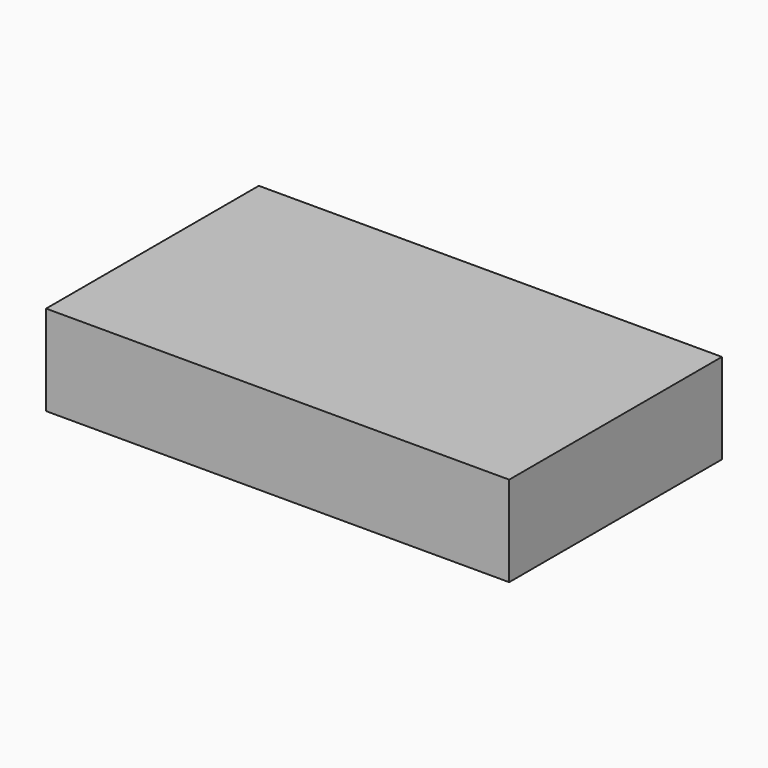
from build123d import *

# Parameters (mm, degrees)
F0_W     = 130.800008
F0_H     = 25.500002
F1_DEPTH = 75.1
F2_W     = 7.499997
F2_H     = 18
F2_W_2   = 7.200001
F2_H_2   = 17.7
F2_W_3   = 8.4
F2_W_4   = 9.900001
F2_H_3   = 17.400001
F2_W_5   = 8.399998
F2_W_6   = 8.399999
F2_H_4   = 16.500001
F2_W_7   = 9.300005
F2_W_8   = 11.099998
F2_H_5   = 15.600001
F3_DEPTH = 60


with BuildPart() as f1:
    # F0 (on Front) → F1 (new body)
    with BuildSketch(Plane.XZ):
        Rectangle(F0_W, F0_H)
    extrude(amount=F1_DEPTH)

    # F2 (on Front) → F3 (cut)
    with BuildSketch(Plane.XZ):
        with Locations((-46.650002, -0.15)):
            Rectangle(F2_W, F2_H)
        with Locations((-32.400001, -0.3)):
            Rectangle(F2_W_2, F2_H_2)
        with Locations((-19.500001, -0.3)):
            Rectangle(F2_W_3, F2_H_2)
        with Locations((-4.95, -0.45)):
            Rectangle(F2_W_4, F2_H_3)
        with Locations((8.4, -0.45)):
            Rectangle(F2_W_5, F2_H_3)
        with Locations((22.2, -0.6)):
            Rectangle(F2_W_6, F2_H_4)
        with Locations((35.850001, -0.6)):
            Rectangle(F2_W_7, F2_H_4)
        with Locations((50.850002, 0.149999)):
            Rectangle(F2_W_8, F2_H_5)
    extrude(amount=F3_DEPTH, mode=Mode.SUBTRACT)


solid = f1.part
